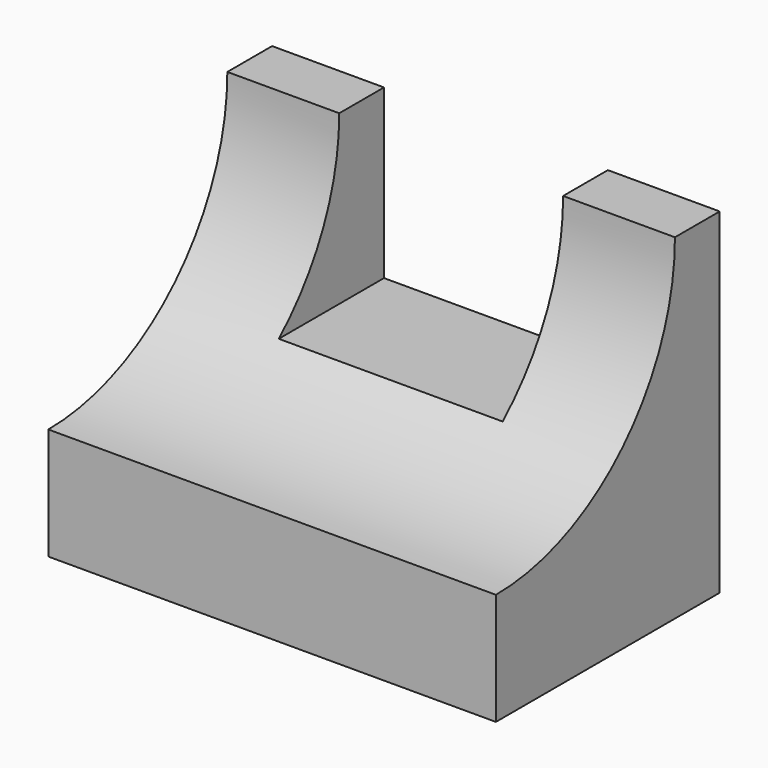
from build123d import *

# Parameters (mm, degrees)
F0_W     = 50.8
F0_H     = 38.1
F1_DEPTH = 31.75
F3_DEPTH = 50.801
F4_W     = 25.407727
F4_H     = 19.05
F5_DEPTH = 31.751


with BuildPart() as f1:
    # F0 (on Front) → F1 (new body)
    with BuildSketch(Plane.XZ):
        with Locations((25.4, 19.05)):
            Rectangle(F0_W, F0_H)
    extrude(amount=F1_DEPTH)

    # F2 (on face) → F3 (cut, through all)
    with BuildSketch(Plane.YZ.offset(50.8)):
        with BuildLine():
            Line((-31.75, 38.1), (-31.75, 12.7))
            ThreePointArc((-31.75, 12.7), (-13.78023, 20.13023), (-6.35, 38.1))
            Line((-6.35, 38.1), (-31.75, 38.1))
        make_face()
    extrude(amount=-F3_DEPTH, mode=Mode.SUBTRACT)

    # F4 (on face) → F5 (cut, through all)
    with BuildSketch(Plane(origin=(0, 0, 0), x_dir=(-1, 0, 0), z_dir=(0, 1, 0))):
        with Locations((-25.403863, 28.575)):
            Rectangle(F4_W, F4_H)
    extrude(amount=-F5_DEPTH, mode=Mode.SUBTRACT)


solid = f1.part
